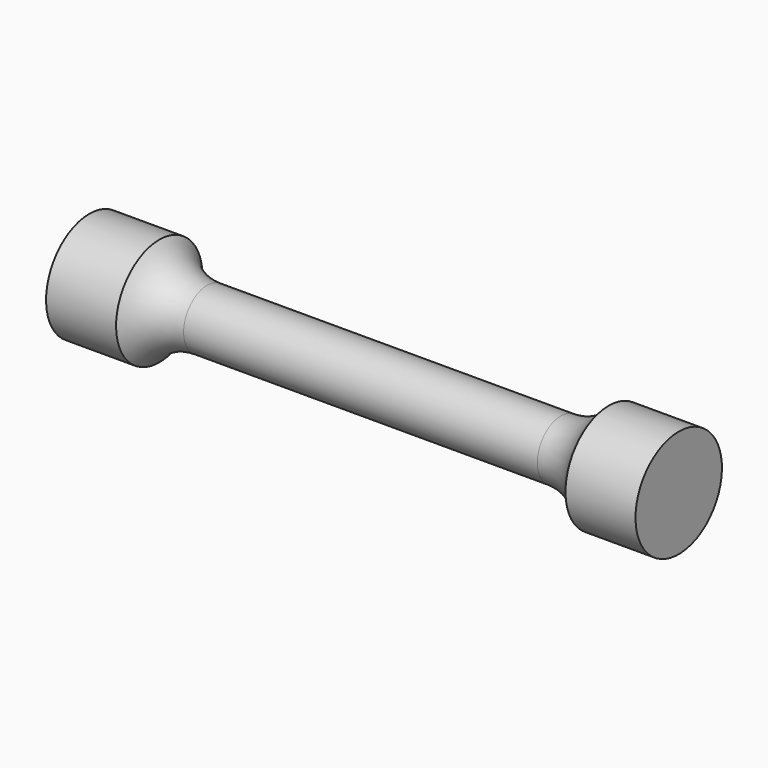
from build123d import *


with BuildPart() as f1:
    # F0 (on Front) → F1 (revolve)
    with BuildSketch(Plane.XZ):
        with BuildLine():
            Line((18, 3), (0, 3))
            Line((0, 3), (-18, 3))
            ThreePointArc((-18, 3), (-20.738613, 3.661461), (-22.873397, 5.5))
            Line((-22.873397, 5.5), (-30, 5.5))
            Line((-30, 5.5), (-30, 0))
            Line((-30, 0), (0, 0))
            Line((0, 0), (30, 0))
            Line((30, 0), (30, 5.5))
            Line((30, 5.5), (22.873397, 5.5))
            ThreePointArc((22.873397, 5.5), (20.738613, 3.661461), (18, 3))
        make_face()
    revolve(axis=Axis((-15, 0, 0), (1, 0, 0)))


solid = f1.part
